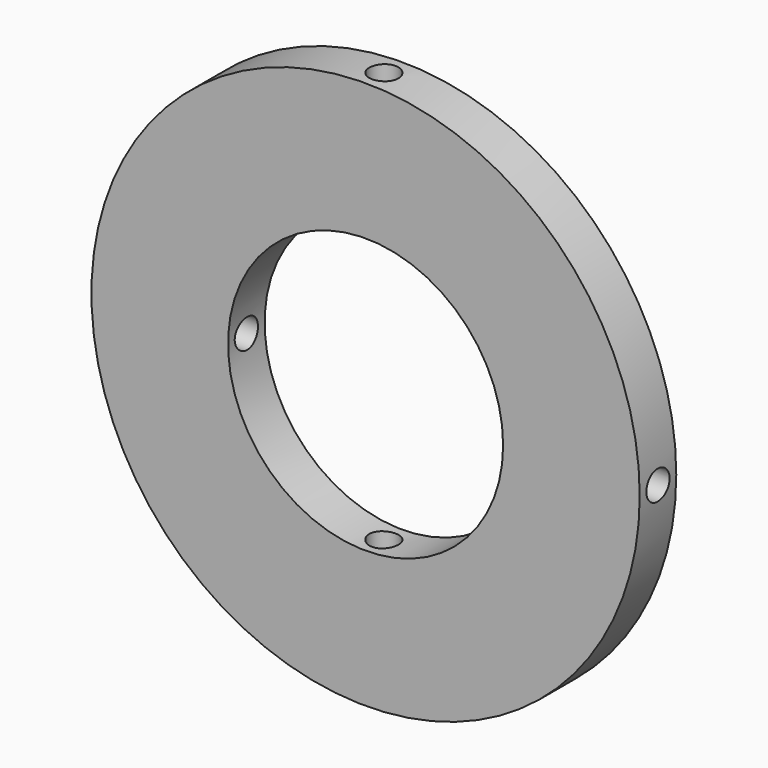
from build123d import *

# Parameters (mm, degrees)
F0_R     = 38.1
F0_R_2   = 19.1135
F1_DEPTH = 6.35
F4_D     = 4.0386
F7_D     = 4.0386


with BuildPart() as f1:
    # F0 (on Front) → F1 (new body)
    with BuildSketch(Plane.XZ):
        Circle(F0_R)
        Circle(F0_R_2, mode=Mode.SUBTRACT)
    extrude(amount=F1_DEPTH)

    # F4 (through all)
    with Locations(Plane.XY.offset(38.1)):
        with Locations((0, -3.175)):
            Hole(F4_D / 2)

    # F7 (through all)
    with Locations(Plane.YZ.offset(38.1)):
        with Locations((-3.175, 0)):
            Hole(F7_D / 2)


solid = f1.part
